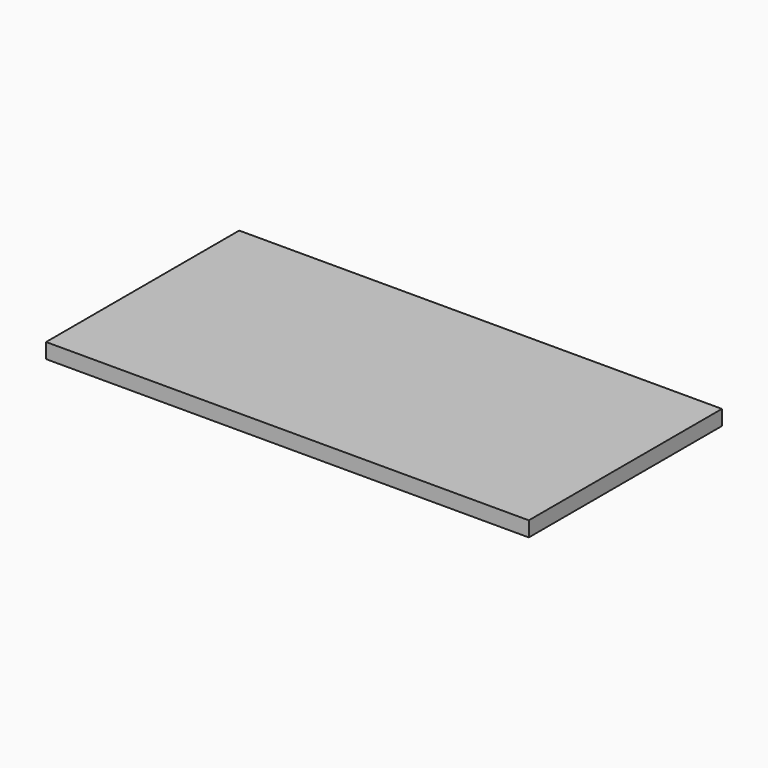
from build123d import *

# Parameters (mm, degrees)
F0_W     = 812.8
F0_H     = 812.8
F1_DEPTH = 25.4
F3_DEPTH = 25.401


with BuildPart() as f1:
    # F0 (on Top) → F1 (new body)
    with BuildSketch(Plane.XY):
        Rectangle(F0_W, F0_H)
    extrude(amount=F1_DEPTH)

    # F2 (on face) → F3 (cut, through all)
    with BuildSketch(Plane.XY.offset(25.4)):
        Polygon((406.4, 401.909872), (406.4, 406.4), (-406.4, 406.4), (-406.4, 0), (406.4, 0), align=None)
    extrude(amount=-F3_DEPTH, mode=Mode.SUBTRACT)


solid = f1.part
